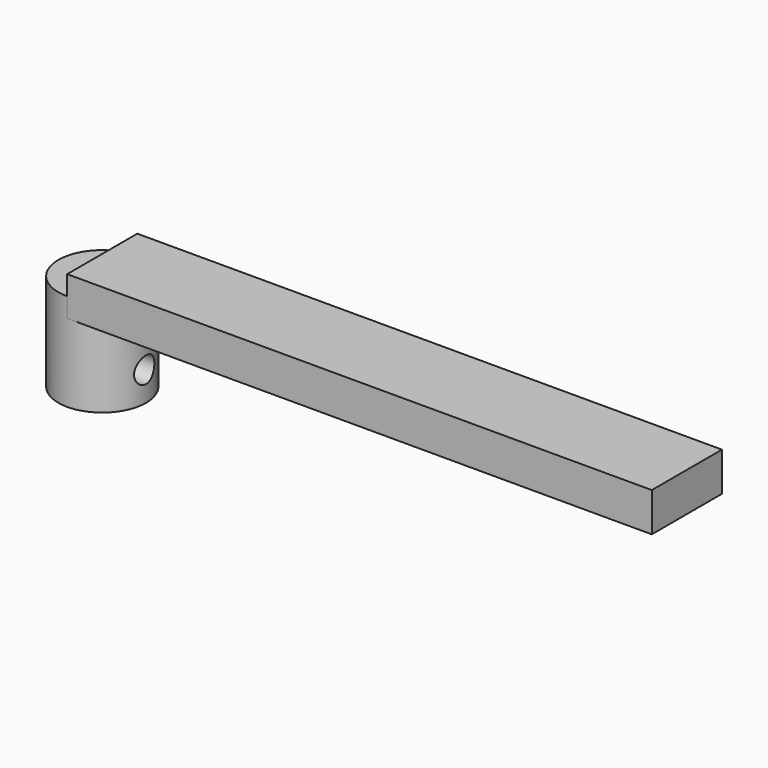
from build123d import *

# Parameters (mm, degrees)
CYLINDER_R           = 1.3
CYLINDER_DEPTH       = 5
CYLINDER_PITCH_ANGLE = 90
BOX_W                = 3
BOX_H                = 5
BOX_DEPTH            = 7
CYLINDER001_R        = 4.5
CYLINDER001_DEPTH    = 10
BOX001_W             = 60
BOX001_H             = 9
BOX001_DEPTH         = 4


with BuildPart() as cylinder:
    # Cylinder → Cylinder (new body)
    with BuildSketch(Plane.XY):
        Circle(CYLINDER_R)
    extrude(amount=CYLINDER_DEPTH)


with BuildPart() as cylinder_1:
    # Cylinder pitch: moved
    add(cylinder.part.rotate(Axis((0, 0, 0), (0, 1, 0)), CYLINDER_PITCH_ANGLE))


with BuildPart() as cylinder_2:
    # Cylinder placement: moved
    add(cylinder_1.part.moved(Location((0, 0, 3))))


with BuildPart() as box:
    # Box → Box (new body)
    with BuildSketch(Plane(origin=(-1.5, -2.5, 0), x_dir=(1, 0, 0), z_dir=(0, 0, 1))):
        with Locations((1.5, 2.5)):
            Rectangle(BOX_W, BOX_H)
    extrude(amount=BOX_DEPTH)


with BuildPart() as cut001:
    # Cylinder001 → Cylinder001 (new body)
    with BuildSketch(Plane.XY):
        Circle(CYLINDER001_R)
    extrude(amount=CYLINDER001_DEPTH)

    # Cut: cut Box
    add(box.part, mode=Mode.SUBTRACT)

    # Cut001: cut Cylinder
    add(cylinder_2.part, mode=Mode.SUBTRACT)


with BuildPart() as box001:
    # Box001 → Box001 (new body)
    with BuildSketch(Plane(origin=(0, -4.5, 8), x_dir=(1, 0, 0), z_dir=(0, 0, 1))):
        with Locations((30, 4.5)):
            Rectangle(BOX001_W, BOX001_H)
    extrude(amount=BOX001_DEPTH)


solid = Compound([cut001.part, box001.part])
